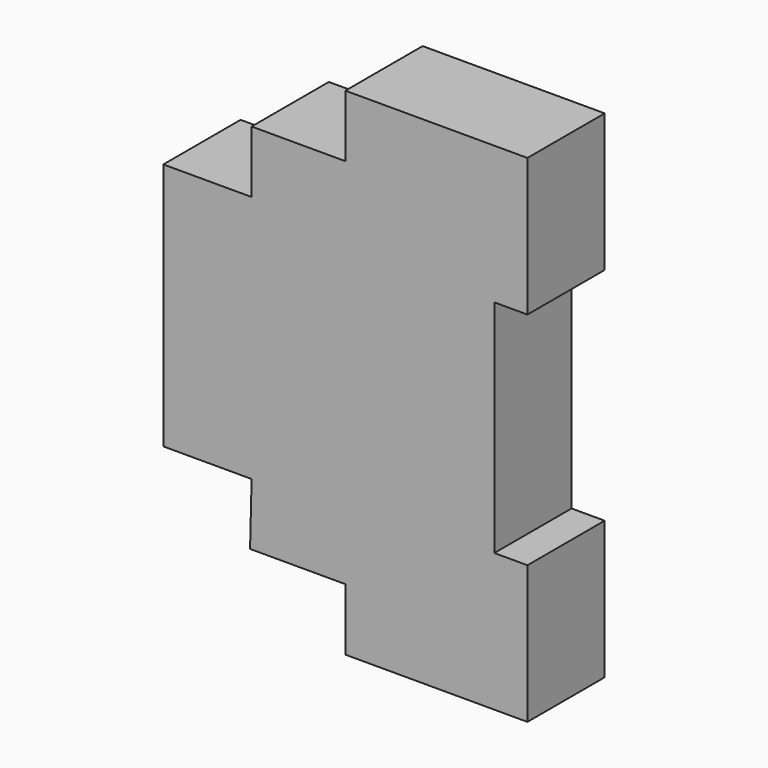
from build123d import *

# Parameters (mm, degrees)
F1_DEPTH  = 17.5
F4_DEPTH  = 5
F6_DEPTH  = 3
F8_DEPTH  = 3
F9_W      = 16.8058317795
F9_H      = 44.2914962769
F10_DEPTH = 2
F2_R      = 2.117891982
F2_R_2    = 2.2502095604
F2_R_3    = 2.1412189154
F2_R_4    = 1.9250274961
F2_R_5    = 1.9886102938
F2_R_6    = 1.8999785502
F2_R_7    = 1.9125474789
F11_DEPTH = 45
F13_DEPTH = 3
F14_W     = 2.2663704585
F14_H     = 4.6991482377
F14_H_2   = 4.3204948306
F14_H_3   = 4.5327991247
F15_DEPTH = 3


with BuildPart() as f1:
    # F0 (on Front) → F1 (new body)
    with BuildSketch(Plane.XZ):
        Polygon((-29.036315158, 123.5913918912), (-62.036315158, 123.5913918912), (-62.036315158, 112.3413918912), (-79.036315158, 112.3413918912), (-79.036315158, 101.0913918912), (-95.036315158, 101.0913918912), (-95.036315158, 56.0913918912), (-79.036315158, 56.0913918912), (-79.3131489307, 44.8413918912), (-62.036315158, 44.8413918912), (-62.036315158, 33.5913918912), (-29.036315158, 33.5913918912), (-29.036315158, 58.5913918912), (-35.036315158, 58.5913918912), (-35.036315158, 98.5913918912), (-29.036315158, 98.5913918912), align=None)
    extrude(amount=F1_DEPTH)

    # F3 (on face) → F4 (cut)
    with BuildSketch(Plane(origin=(-62.036315158, 0, 0), x_dir=(0, -1, 0), z_dir=(-1, 0, 0))):
        with BuildLine():
            Line((13.4917167276, 121.9224523306), (4.209778944, 121.9224523306))
            ThreePointArc((4.209778944, 121.9224523306), (2.0884586005, 121.0437726741), (1.209778944, 118.9224523306))
            Line((1.209778944, 118.9224523306), (1.209778944, 118.5100823641))
            ThreePointArc((1.209778944, 118.5100823641), (2.0884586005, 116.3887620205), (4.209778944, 115.5100823641))
            Line((4.209778944, 115.5100823641), (13.4917167276, 115.5100823641))
            ThreePointArc((13.4917167276, 115.5100823641), (15.6130370712, 116.3887620205), (16.4917167276, 118.5100823641))
            Line((16.4917167276, 118.5100823641), (16.4917167276, 118.9224523306))
            ThreePointArc((16.4917167276, 118.9224523306), (15.6130370712, 121.0437726741), (13.4917167276, 121.9224523306))
        make_face()
    extrude(amount=-F4_DEPTH, mode=Mode.SUBTRACT)

    # F5 (on face) → F6 (cut)
    with BuildSketch(Plane(origin=(-79.036315158, 0, 0), x_dir=(0, -1, 0), z_dir=(-1, 0, 0))):
        with BuildLine():
            Line((13.656557098, 110.2756986618), (3.9331587353, 110.2756986618))
            ThreePointArc((3.9331587353, 110.2756986618), (1.8118383917, 109.3970190054), (0.9331587353, 107.2756986618))
            Line((0.9331587353, 107.2756986618), (0.9331587353, 106.5890877247))
            ThreePointArc((0.9331587353, 106.5890877247), (1.8118383917, 104.4677673811), (3.9331587353, 103.5890877247))
            Line((3.9331587353, 103.5890877247), (13.656557098, 103.5890877247))
            ThreePointArc((13.656557098, 103.5890877247), (15.7778774416, 104.4677673811), (16.656557098, 106.5890877247))
            Line((16.656557098, 106.5890877247), (16.656557098, 107.2756986618))
            ThreePointArc((16.656557098, 107.2756986618), (15.7778774416, 109.3970190054), (13.656557098, 110.2756986618))
        make_face()
    extrude(amount=-F6_DEPTH, mode=Mode.SUBTRACT)

    # F7 (on face) → F8 (cut)
    with BuildSketch(Plane(origin=(-62.036315158, 0, 0), x_dir=(0, -1, 0), z_dir=(-1, 0, 0))):
        with BuildLine():
            ThreePointArc((1.2264838442, 38.6837883592), (2.1051635007, 36.5624680156), (4.2264838442, 35.6837883592))
            Line((4.2264838442, 35.6837883592), (13.5701508522, 35.6837883592))
            ThreePointArc((13.5701508522, 35.6837883592), (15.6914711958, 36.5624680156), (16.5701508522, 38.6837883592))
            Line((16.5701508522, 38.6837883592), (16.5701508522, 39.2147824168))
            ThreePointArc((16.5701508522, 39.2147824168), (15.6914711958, 41.3361027604), (13.5701508522, 42.2147824168))
            Line((13.5701508522, 42.2147824168), (4.2264838442, 42.2147824168))
            ThreePointArc((4.2264838442, 42.2147824168), (2.1051635007, 41.3361027604), (1.2264838442, 39.2147824168))
            Line((1.2264838442, 39.2147824168), (1.2264838442, 38.6837883592))
        make_face()
    extrude(amount=-F8_DEPTH, mode=Mode.SUBTRACT)

    # F9 (on face) → F10 (cut)
    with BuildSketch(Plane(origin=(-95.036315158, 0, 0), x_dir=(0, -1, 0), z_dir=(-1, 0, 0))):
        with Locations((8.6868142389, 78.5176903009)):
            Rectangle(F9_W, F9_H)
    extrude(amount=-F10_DEPTH, mode=Mode.SUBTRACT)

    # F2 (on face) → F11 (cut)
    with BuildSketch(Plane(origin=(-95.036315158, 0, 0), x_dir=(0, -1, 0), z_dir=(-1, 0, 0))):
        with Locations((4.1773817502, 118.7390312552)):
            Circle(F2_R)
        with Locations((13.2942087948, 118.7390312552)):
            Circle(F2_R_2)
        with Locations((4.1773817502, 106.985270977)):
            Circle(F2_R_3)
        with Locations((13.2942087948, 106.985270977)):
            Circle(F2_R_4)
        with Locations((4.2668927927, 51.1149987578)):
            Circle(F2_R_3)
        with Locations((13.3837198373, 51.1149987578)):
            Circle(F2_R_4)
        with Locations((4.1773817502, 39.1167402267)):
            Circle(F2_R_5)
        with Locations((8.744363673, 39.1167402267)):
            Circle(F2_R_6)
        with Locations((13.2942087948, 39.1167402267)):
            Circle(F2_R_7)
    extrude(amount=-F11_DEPTH, mode=Mode.SUBTRACT)

    # F12 (on face) → F13 (cut)
    with BuildSketch(Plane(origin=(-80.3679161841, 0, 1.9776491945), x_dir=(0, -1, 0), z_dir=(-0.9996973742, 0, 0.0245999996))):
        with BuildLine():
            ThreePointArc((16.4354741573, 49.2703006864), (15.5567945009, 51.3916210299), (13.4354741573, 52.2703006864))
            Line((13.4354741573, 52.2703006864), (4.2163297506, 52.2703006864))
            ThreePointArc((4.2163297506, 52.2703006864), (2.095009407, 51.3916210299), (1.2163297506, 49.2703006864))
            Line((1.2163297506, 49.2703006864), (1.2163297506, 48.8921268582))
            ThreePointArc((1.2163297506, 48.8921268582), (2.095009407, 46.7708065147), (4.2163297506, 45.8921268582))
            Line((4.2163297506, 45.8921268582), (13.4354741573, 45.8921268582))
            ThreePointArc((13.4354741573, 45.8921268582), (15.5567945009, 46.7708065147), (16.4354741573, 48.8921268582))
            Line((16.4354741573, 48.8921268582), (16.4354741573, 49.2703006864))
        make_face()
    extrude(amount=-F13_DEPTH, mode=Mode.SUBTRACT)

    # F14 (on face) → F15 (cut)
    with BuildSketch(Plane(origin=(-93.036315158, 0, 0), x_dir=(0, -1, 0), z_dir=(-1, 0, 0))):
        with Locations((3.2347693341, 96.0811041296)):
            Rectangle(F14_W, F14_H)
        with Locations((3.2347693341, 89.7187851369)):
            Rectangle(F14_W, F14_H_2)
        with Locations((3.2347693341, 83.6331695318)):
            Rectangle(F14_W, F14_H_3)
    extrude(amount=-F15_DEPTH, mode=Mode.SUBTRACT)


solid = f1.part
